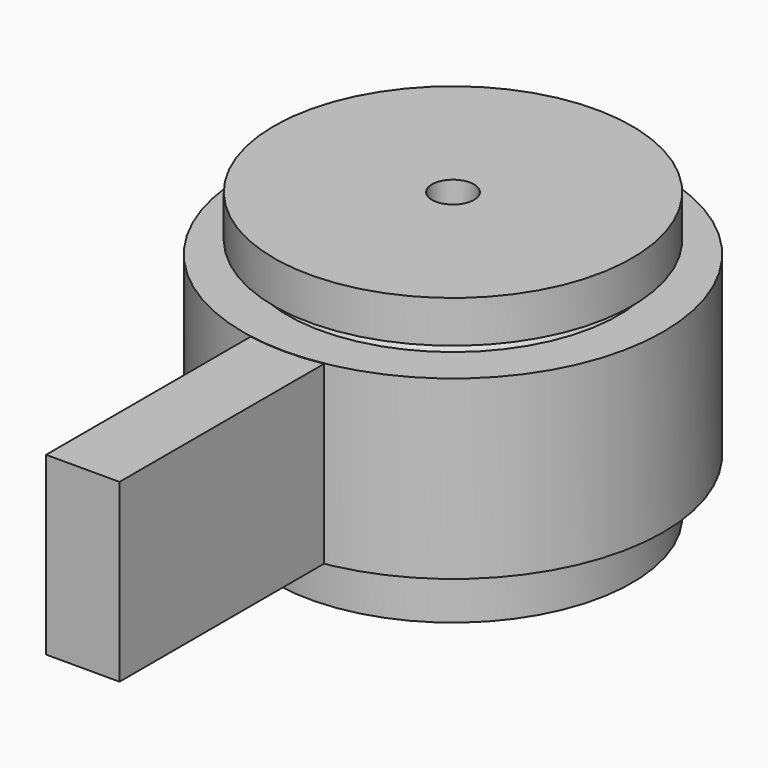
from build123d import *

# Parameters (mm, degrees)
F3_W     = 6.982832
F3_H     = 16.729082
F4_DEPTH = 25


with BuildPart() as f1:
    # F0 (on Front) → F1 (revolve)
    with BuildSketch(Plane.XZ):
        with BuildLine():
            Line((-10, 14.589768), (-6.974567, 14.589768))
            Line((-6.974567, 14.589768), (-6.974567, 12.589768))
            Line((-6.974567, 12.589768), (-6.974567, 7.746858))
            Line((-6.974567, 7.746858), (-1.994864, 7.746858))
            Line((-1.994864, 7.746858), (-1.988749, 14.589768))
            Line((-1.988749, 14.589768), (-2, 27.179537))
            Line((-2, 27.179537), (-17.023501, 27.179537))
            Line((-17.023501, 27.179537), (-17.023501, 23.179537))
            Line((-17.023501, 23.179537), (-15.735179, 23.179537))
            ThreePointArc((-15.735179, 23.179537), (-13.566654, 24.829537), (-11.398129, 23.179537))
            Line((-11.398129, 23.179537), (-10, 23.179537))
            Line((-10, 23.179537), (-10, 14.589768))
        make_face()
        with BuildLine():
            ThreePointArc((-15.735179, 5.2), (-13.566654, 6.85), (-11.398129, 5.2))
            Line((-11.398129, 5.2), (-10.6, 5.2))
            Line((-10.6, 5.2), (-10.6, 21.979537))
            Line((-10.6, 21.979537), (-11.398129, 21.979537))
            ThreePointArc((-11.398129, 21.979537), (-13.566654, 20.329537), (-15.735179, 21.979537))
            Line((-15.735179, 21.979537), (-19.98935, 21.979537))
            Line((-19.98935, 21.979537), (-19.98935, 5.2))
            Line((-19.98935, 5.2), (-15.735179, 5.2))
        make_face()
        with BuildLine():
            Line((-17.023501, 4), (-17.023501, 0))
            Line((-17.023501, 0), (-2, 0))
            Line((-2, 0), (-1.994864, 5.746858))
            Line((-1.994864, 5.746858), (-7.274567, 5.746858))
            Line((-7.274567, 5.746858), (-7.274567, 12.589768))
            Line((-7.274567, 12.589768), (-10, 12.589768))
            Line((-10, 12.589768), (-10, 4))
            Line((-10, 4), (-11.398129, 4))
            ThreePointArc((-11.398129, 4), (-13.566654, 2.35), (-15.735179, 4))
            Line((-15.735179, 4), (-17.023501, 4))
        make_face()
    revolve(axis=Axis((0, 0, 14.994938), (0, 0, 1)))

    # F3 (on offset) → F4 (join)
    with BuildSketch(Plane.XZ.offset(19)):
        with Locations((0, 13.579977)):
            Rectangle(F3_W, F3_H)
    extrude(amount=F4_DEPTH)


solid = f1.part
